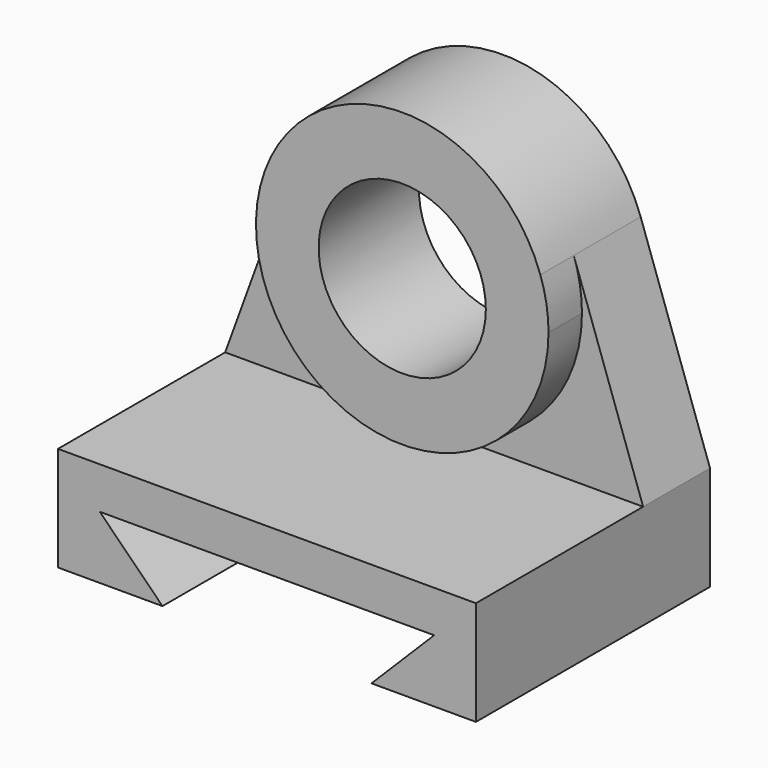
from build123d import *

# Parameters (mm, degrees)
F1_DEPTH = 127
F0_R     = 50.8
F2_DEPTH = 50.8
F3_DEPTH = 25.4


with BuildPart() as f1:
    # F0 (on Front) → F1 (new body)
    with BuildSketch(Plane.XZ):
        Polygon((0, 63.5), (0, 0), (63.5, 0), (25.4, 38.1), (63.5, 38.1), (190.5, 38.1), (228.6, 38.1), (190.5, 0), (254, 0), (254, 63.5), align=None)
    extrude(amount=F1_DEPTH)

    # F0 (on Front) → F2 (join)
    with BuildSketch(Plane.XZ):
        with BuildLine():
            Line((44.395084, 185.368859), (0, 63.5))
            Line((0, 63.5), (254, 63.5))
            Line((254, 63.5), (211.859648, 184.235612))
            ThreePointArc((211.859648, 184.235612), (215.575085, 169.796736), (216.825286, 154.94))
            ThreePointArc((216.825286, 154.94), (112.47577, 67.392742), (44.395084, 185.368859))
        make_face()
        with BuildLine():
            ThreePointArc((211.859648, 184.235612), (128.526866, 243.837965), (44.395084, 185.368859))
            ThreePointArc((44.395084, 185.368859), (112.47577, 67.392742), (216.825286, 154.94))
            ThreePointArc((216.825286, 154.94), (215.575085, 169.796736), (211.859648, 184.235612))
        make_face()
        with Locations((127.925286, 154.94)):
            Circle(F0_R, mode=Mode.SUBTRACT)
        Polygon((0, 63.5), (0, 0), (63.5, 0), (25.4, 38.1), (63.5, 38.1), (190.5, 38.1), (228.6, 38.1), (190.5, 0), (254, 0), (254, 63.5), align=None)
    extrude(amount=-F2_DEPTH)

    # F0 (on Front) → F3 (join)
    with BuildSketch(Plane.XZ):
        with BuildLine():
            ThreePointArc((211.859648, 184.235612), (128.526866, 243.837965), (44.395084, 185.368859))
            ThreePointArc((44.395084, 185.368859), (112.47577, 67.392742), (216.825286, 154.94))
            ThreePointArc((216.825286, 154.94), (215.575085, 169.796736), (211.859648, 184.235612))
        make_face()
        with Locations((127.925286, 154.94)):
            Circle(F0_R, mode=Mode.SUBTRACT)
    extrude(amount=F3_DEPTH)


solid = f1.part
